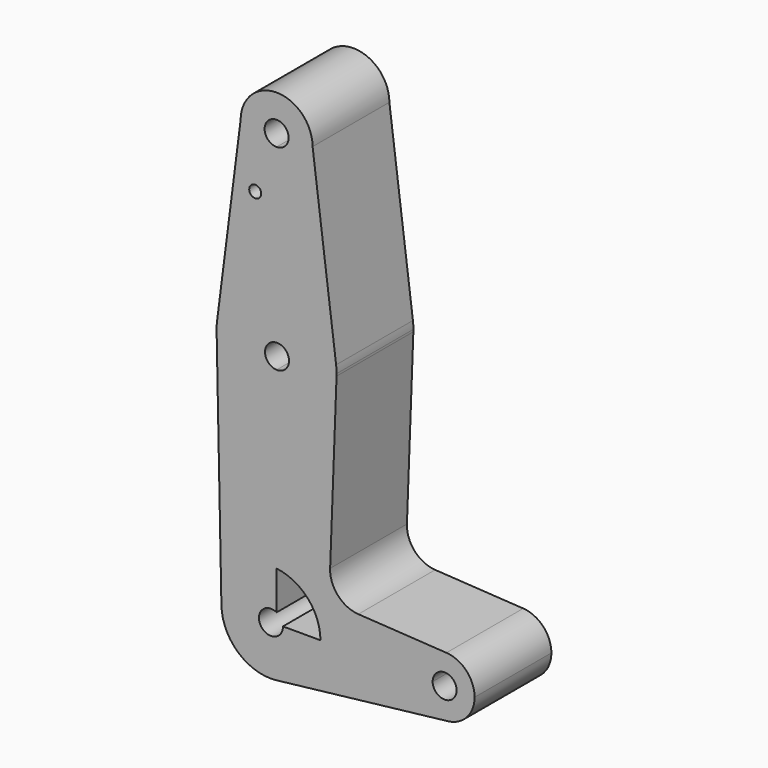
from build123d import *

# Parameters (mm, degrees)
F0_R     = 1.5875
F1_DEPTH = 25.4


with BuildPart() as f1:
    # F0 (on Front) → F1 (new body)
    with BuildSketch(Plane.XZ):
        with BuildLine():
            ThreePointArc((-9.525, 114.3), (-6.7351920908, 107.5648079092), (0, 104.775))
            ThreePointArc((0, 104.775), (6.7351920908, 107.5648079092), (9.525, 114.3))
            ThreePointArc((9.525, 114.3), (0, 123.825), (-9.525, 114.3))
        make_face()
        with BuildLine():
            ThreePointArc((3.175, 114.3), (2.2450640303, 112.0549359697), (0, 111.125))
            ThreePointArc((0, 111.125), (-2.2450640303, 116.5450640303), (3.175, 114.3))
        make_face(mode=Mode.SUBTRACT)
        with BuildLine():
            ThreePointArc((9.525, 114.3), (6.7351920908, 107.5648079092), (0, 104.775))
            Line((0, 104.775), (0, 79.375))
            ThreePointArc((0, 79.375), (10.4912828548, 75.4142187767), (15.7474569047, 65.5082893304))
            Line((15.7474569047, 65.5082893304), (9.525, 114.3))
        make_face()
        with BuildLine():
            Line((0, 79.375), (0, 104.775))
            ThreePointArc((0, 104.775), (-6.7351920908, 107.5648079092), (-9.525, 114.3))
            Line((-9.525, 114.3), (-15.7474569047, 65.5082893304))
            ThreePointArc((-15.7474569047, 65.5082893304), (-10.4912828548, 75.4142187767), (0, 79.375))
        make_face()
        with Locations((-5.6548165157, 98.9082781559)):
            Circle(F0_R, mode=Mode.SUBTRACT)
        with BuildLine():
            ThreePointArc((15.7474569047, 65.5082893304), (10.4912828548, 75.4142187767), (0, 79.375))
            Line((0, 79.375), (0, 65.5562360028))
            ThreePointArc((0, 65.5562360028), (2.3146396024, 64.6660553541), (3.2831400868, 62.3830781559))
            ThreePointArc((3.2831400868, 62.3830781559), (2.3146396024, 60.1001009576), (0, 59.2099203089))
            Line((0, 59.2099203089), (0, 47.625))
            ThreePointArc((0, 47.625), (11.0133378983, 52.0666272108), (15.8638863427, 62.9060849338))
            ThreePointArc((15.8638863427, 62.9060849338), (15.8722213425, 63.2029904803), (15.875, 63.5))
            ThreePointArc((15.875, 63.5), (15.8430821396, 64.5061676396), (15.7474569047, 65.5082893304))
        make_face()
        with BuildLine():
            Line((0, 65.5562360028), (0, 79.375))
            ThreePointArc((0, 79.375), (-10.4912828548, 75.4142187767), (-15.7474569047, 65.5082893304))
            ThreePointArc((-15.7474569047, 65.5082893304), (-15.8523441203, 64.3478271584), (-15.8718306313, 63.1827975208))
            ThreePointArc((-15.8718306313, 63.1827975208), (-11.1126062569, 52.1630865233), (0, 47.625))
            Line((0, 47.625), (0, 59.2099203089))
            ThreePointArc((0, 59.2099203089), (-3.0668599132, 62.3830781559), (0, 65.5562360028))
        make_face()
        with BuildLine():
            ThreePointArc((0, 47.625), (-11.1126062569, 52.1630865233), (-15.8718306313, 63.1827975208))
            Line((-15.8718306313, 63.1827975208), (-14.6022064723, -0.345267158))
            ThreePointArc((-14.6022064723, -0.345267158), (-10.3175338811, 9.6121595573), (0, 12.9374055054))
            Line((0, 12.9374055054), (0, 47.625))
        make_face()
        with BuildLine():
            ThreePointArc((15.8638863427, 62.9060849338), (11.0133378983, 52.0666272108), (0, 47.625))
            Line((0, 47.625), (0, 12.9374055054))
            ThreePointArc((0, 12.9374055054), (8.257241346, 8.6697831416), (11.6082852973, 0))
            Line((11.6082852973, 0), (36.5125, 0))
            ThreePointArc((36.5125, 0), (39.010333931, 5.7804791591), (44.9317602981, 7.9228664803))
            Line((44.9317602981, 7.9228664803), (21.6287940926, 9.3398339346))
            ThreePointArc((21.6287940926, 9.3398339346), (16.22067571, 11.9362826454), (14.1666909268, 17.5728096664))
            Line((14.1666909268, 17.5728096664), (15.8638863427, 62.9060849338))
        make_face()
        with BuildLine():
            ThreePointArc((0, 12.9374055054), (-10.3175338811, 9.6121595573), (-14.6022064723, -0.345267158))
            ThreePointArc((-14.6022064723, -0.345267158), (-10.1220439729, -9.9532045), (0, -13.1041633701))
            ThreePointArc((0, -13.1041633701), (8.2850340057, -8.8054668749), (11.6085505099, -0.0833789323))
            ThreePointArc((11.6085505099, -0.0833789323), (11.6084842065, -0.0416892553), (11.6082852973, 0))
            Line((11.6082852973, 0), (1.6757686742, 0))
            ThreePointArc((1.6757686742, 0), (1.6765899118, -0.0416858712), (1.6768636734, -0.0833789323))
            ThreePointArc((1.6768636734, -0.0833789323), (-4.22184775, -1.71494906), (0, 2.7159446551))
            Line((0, 2.7159446551), (0, 12.9374055054))
        make_face()
        with BuildLine():
            ThreePointArc((11.6085505099, -0.0833789323), (8.2850340057, -8.8054668749), (0, -13.1041633701))
            Line((0, -13.1041633701), (45.3572816983, -7.8854769146))
            ThreePointArc((45.3572816983, -7.8854769146), (39.1678433491, -5.9247554688), (36.5125, 0))
            Line((36.5125, 0), (11.6082852973, 0))
            ThreePointArc((11.6082852973, 0), (11.6084842065, -0.0416892553), (11.6085505099, -0.0833789323))
        make_face()
        with BuildLine():
            ThreePointArc((36.5125, 0), (39.1678433491, -5.9247554688), (45.3572816983, -7.8854769146))
            ThreePointArc((45.3572816983, -7.8854769146), (50.3747554688, -5.2821566509), (52.3875, 0))
            ThreePointArc((52.3875, 0), (50.2304791591, 5.439666069), (44.9317602981, 7.9228664803))
            ThreePointArc((44.9317602981, 7.9228664803), (39.010333931, 5.7804791591), (36.5125, 0))
        make_face()
        with BuildLine():
            ThreePointArc((47.6378968835, 0.0410338398), (44.4834142318, -3.1338998663), (41.2881620561, 0))
            ThreePointArc((41.2881620561, 0), (44.4423795352, 3.215967546), (47.6378968835, 0.0410338398))
        make_face(mode=Mode.SUBTRACT)
    extrude(amount=F1_DEPTH)


solid = f1.part
